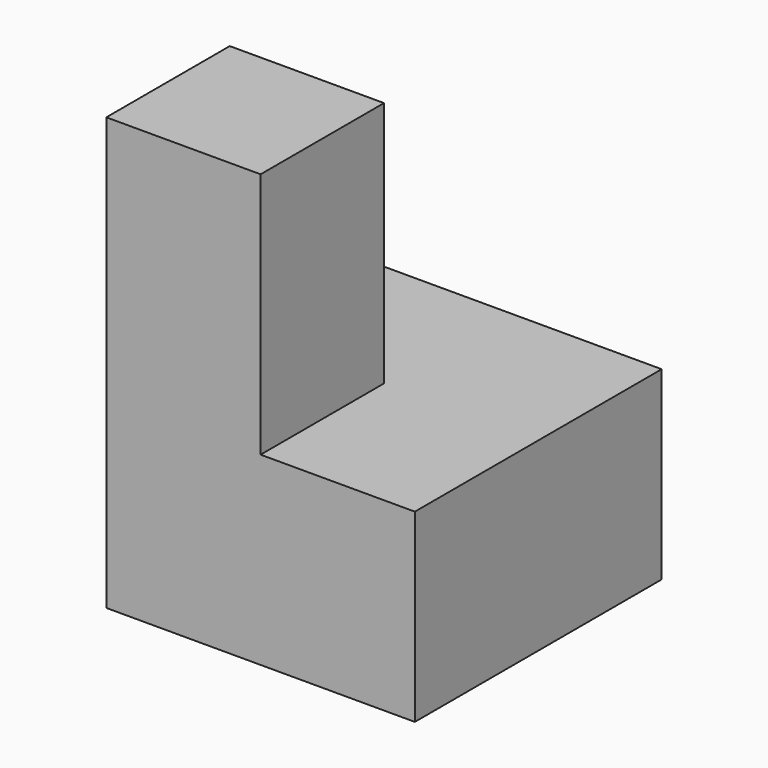
from build123d import *

# Parameters (mm, degrees)
F0_W     = 100
F0_H     = 100
F1_DEPTH = 140
F2_W     = 50
F2_H     = 80
F3_DEPTH = 100
F4_W     = 50
F4_H     = 80
F5_DEPTH = 50


with BuildPart() as f1:
    # F0 (on Top) → F1 (new body)
    with BuildSketch(Plane.XY):
        with Locations((-8.820043, 10.226071)):
            Rectangle(F0_W, F0_H)
    extrude(amount=F1_DEPTH)

    # F2 (on face) → F3 (cut, through all)
    with BuildSketch(Plane.XZ.offset(39.773929)):
        with Locations((16.179957, 100)):
            Rectangle(F2_W, F2_H)
    extrude(amount=-F3_DEPTH, mode=Mode.SUBTRACT)

    # F4 (on face) → F5 (cut, through all)
    with BuildSketch(Plane.YZ.offset(-8.820043)):
        with Locations((35.226071, 100)):
            Rectangle(F4_W, F4_H)
    extrude(amount=-F5_DEPTH, mode=Mode.SUBTRACT)


solid = f1.part
